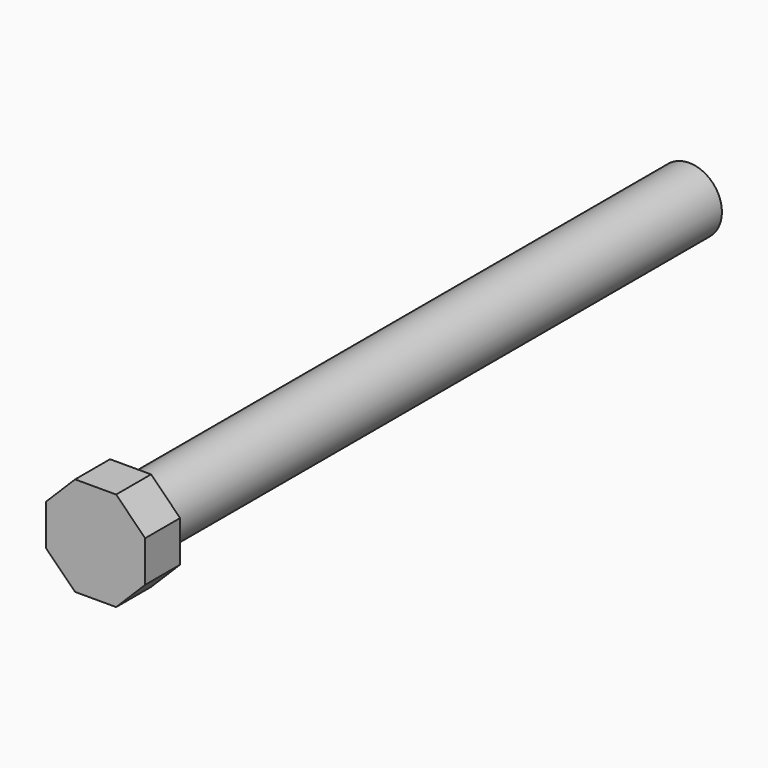
from build123d import *

# Parameters (mm, degrees)
F0_R     = 4.7625
F1_DEPTH = 101.6
F3_DEPTH = 6.35


with BuildPart() as f1:
    # F0 (on Front) → F1 (new body)
    with BuildSketch(Plane.XZ):
        Circle(F0_R)
    extrude(amount=-F1_DEPTH)

    # F2 (on Front) → F3 (join)
    with BuildSketch(Plane.XZ):
        Polygon((-2.956976, -7.2649), (3.012877, -7.2649), (7.2342, -3.043577), (7.2342, 2.926276), (3.012877, 7.1476), (-2.956976, 7.1476), (-7.1783, 2.926276), (-7.1783, -3.043577), align=None)
    extrude(amount=F3_DEPTH)


solid = f1.part
